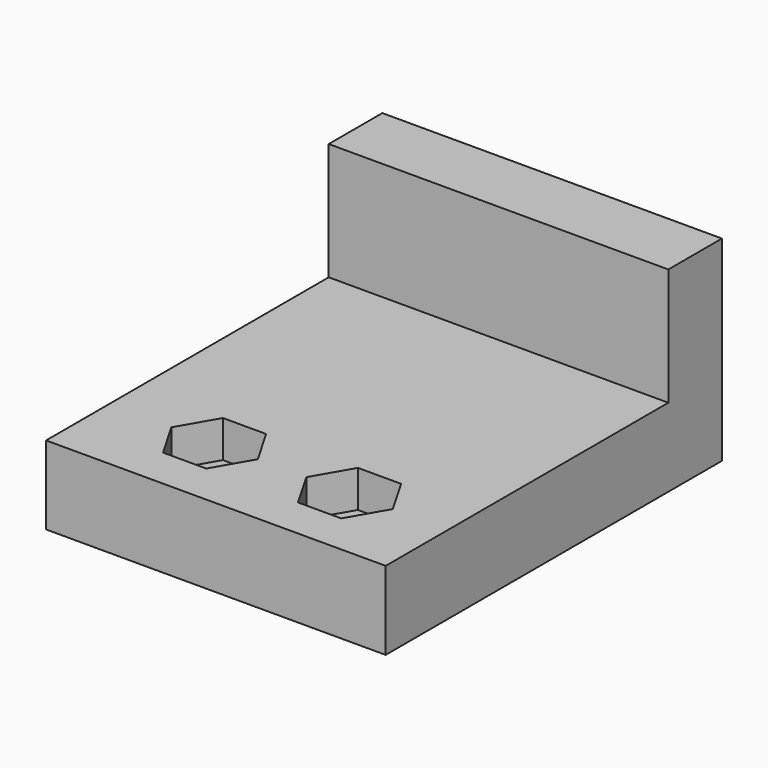
from build123d import *

# Parameters (mm, degrees)
F0_W     = 55
F0_H     = 68.072
F1_DEPTH = 12.7
F2_R     = 3.556
F3_DEPTH = 6
F4_DEPTH = 12.7
F5_W     = 55
F5_H     = 10.8541566
F6_DEPTH = 19


with BuildPart() as f1:
    # F0 (on Top) → F1 (new body)
    with BuildSketch(Plane.XY):
        with Locations((-0.5289506033, -7.0382300764)):
            Rectangle(F0_W, F0_H)
    extrude(amount=F1_DEPTH)

    # F2 (on face) → F3 (cut)
    with BuildSketch(Plane.XY.offset(12.7)):
        Polygon((-14.4, -22.3120522499), (-17.9, -28.3742300764), (-14.4, -34.4364079029), (-7.4, -34.4364079029), (-3.9, -28.3742300764), (-7.4, -22.3120522499), align=None)
        with Locations((-10.9, -28.3742300764)):
            Circle(F2_R, mode=Mode.SUBTRACT)
        Polygon((14.456, -34.4364079029), (17.956, -28.3742300764), (14.456, -22.3120522499), (7.456, -22.3120522499), (3.956, -28.3742300764), (7.456, -34.4364079029), align=None)
        with Locations((10.956, -28.3742300764)):
            Circle(F2_R, mode=Mode.SUBTRACT)
    extrude(amount=-F3_DEPTH, mode=Mode.SUBTRACT)

    # F4 (cut, through all): faces of the model
    f4_faces = [f1.faces().sort_by_distance(p)[0] for p in [
        (-10.9, -28.3742300764, 12.7),
        (10.956, -28.3742300764, 12.7),
    ]]
    extrude(f4_faces, amount=-F4_DEPTH, mode=Mode.SUBTRACT)

    # F5 (on face) → F6 (join)
    with BuildSketch(Plane.XY.offset(12.7)):
        with Locations((-0.5289506033, 21.5706916236)):
            Rectangle(F5_W, F5_H)
    extrude(amount=F6_DEPTH)


solid = f1.part
